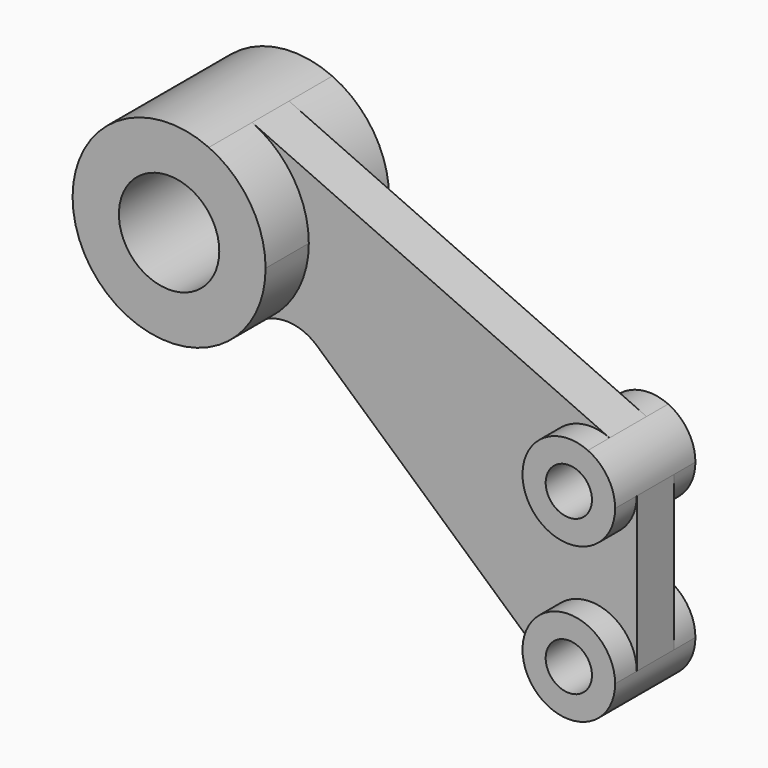
from build123d import *

# Parameters (mm, degrees)
F1_DEPTH = 5.9944
F0_R     = 13.0048
F2_DEPTH = 20.0025
F0_R_2   = 5.9944
F3_DEPTH = 13.0048


with BuildPart() as f1:
    # F0 (on Front) → F1 (new body, symmetric)
    with BuildSketch(Plane.XZ):
        with BuildLine():
            ThreePointArc((10.294693, 22.788908), (21.008894, 13.562501), (25.0063, 0))
            ThreePointArc((25.0063, 0), (21.784516, -12.278025), (12.949346, -21.392276))
            ThreePointArc((12.949346, -21.392276), (20.268898, -19.711211), (27.152389, -22.714435))
            Line((27.152389, -22.714435), (89.990008, -78.945829))
            ThreePointArc((89.990008, -78.945829), (93.09495, -59.045979), (109.9947, -70.0024))
            Line((109.9947, -70.0024), (109.9947, -29.9974))
            ThreePointArc((109.9947, -29.9974), (87.910211, -36.506574), (102.934025, -19.060113))
            Line((102.934025, -19.060113), (10.294693, 22.788908))
        make_face()
    extrude(amount=F1_DEPTH, both=True)

    # F0 (on Front) → F2 (join, symmetric)
    with BuildSketch(Plane.XZ):
        with BuildLine():
            ThreePointArc((12.949346, -21.392276), (21.784516, -12.278025), (25.0063, 0))
            ThreePointArc((25.0063, 0), (21.008894, 13.562501), (10.294693, 22.788908))
            ThreePointArc((10.294693, 22.788908), (-24.961282, -1.499814), (12.949346, -21.392276))
        make_face()
        Circle(F0_R, mode=Mode.SUBTRACT)
    extrude(amount=F2_DEPTH, both=True)

    # F0 (on Front) → F3 (join, symmetric)
    with BuildSketch(Plane.XZ):
        with BuildLine():
            ThreePointArc((109.9947, -29.9974), (108.076189, -23.488226), (102.934025, -19.060113))
            ThreePointArc((102.934025, -19.060113), (87.910211, -36.506574), (109.9947, -29.9974))
        make_face()
        with Locations((97.9932, -29.9974)):
            Circle(F0_R_2, mode=Mode.SUBTRACT)
        with BuildLine():
            ThreePointArc((109.9947, -70.0024), (93.09495, -59.045979), (89.990008, -78.945829))
            ThreePointArc((89.990008, -78.945829), (102.89145, -80.958821), (109.9947, -70.0024))
        make_face()
        with Locations((97.9932, -70.0024)):
            Circle(F0_R_2, mode=Mode.SUBTRACT)
    extrude(amount=F3_DEPTH, both=True)


solid = f1.part
